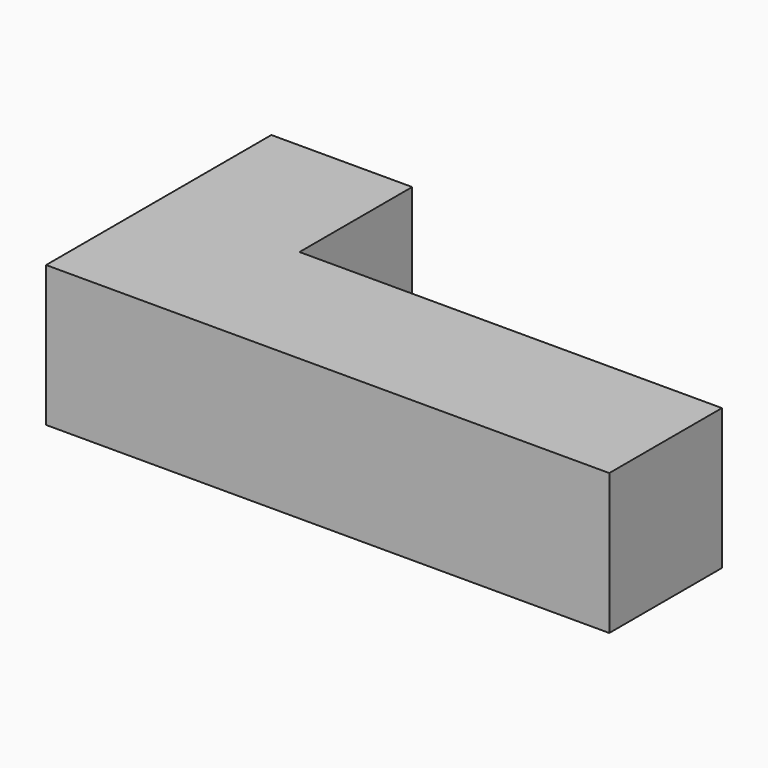
from build123d import *

# Parameters (mm, degrees)
BOX015_W     = 10
BOX015_H     = 10
BOX015_DEPTH = 10
BOX013_W     = 10
BOX013_H     = 10
BOX013_DEPTH = 10
BOX014_W     = 10
BOX014_H     = 10
BOX014_DEPTH = 10
BOX016_W     = 10
BOX016_H     = 10
BOX016_DEPTH = 10
BOX012_W     = 10
BOX012_H     = 10
BOX012_DEPTH = 10


with BuildPart() as cubo015:
    # Box015 → Box015 (new body)
    with BuildSketch(Plane(origin=(30, 0, 0), x_dir=(1, 0, 0), z_dir=(0, 0, 1))):
        with Locations((5, 5)):
            Rectangle(BOX015_W, BOX015_H)
    extrude(amount=BOX015_DEPTH)


with BuildPart() as cubo013:
    # Box013 → Box013 (new body)
    with BuildSketch(Plane(origin=(10, 0, 0), x_dir=(1, 0, 0), z_dir=(0, 0, 1))):
        with Locations((5, 5)):
            Rectangle(BOX013_W, BOX013_H)
    extrude(amount=BOX013_DEPTH)


with BuildPart() as cubo014:
    # Box014 → Box014 (new body)
    with BuildSketch(Plane(origin=(20, 0, 0), x_dir=(1, 0, 0), z_dir=(0, 0, 1))):
        with Locations((5, 5)):
            Rectangle(BOX014_W, BOX014_H)
    extrude(amount=BOX014_DEPTH)


with BuildPart() as cubo016:
    # Box016 → Box016 (new body)
    with BuildSketch(Plane(origin=(0, 10, 0), x_dir=(1, 0, 0), z_dir=(0, 0, 1))):
        with Locations((5, 5)):
            Rectangle(BOX016_W, BOX016_H)
    extrude(amount=BOX016_DEPTH)


with BuildPart() as fusion002003:
    # Box012 → Box012 (new body)
    with BuildSketch(Plane.XY):
        with Locations((5, 5)):
            Rectangle(BOX012_W, BOX012_H)
    extrude(amount=BOX012_DEPTH)

    # Fusion002003: union Cubo015, Cubo013, Cubo014, Cubo016
    add(cubo015.part)
    add(cubo013.part)
    add(cubo014.part)
    add(cubo016.part)


with BuildPart() as fusion002003_1:
    # Fusion002003 placement: moved
    add(fusion002003.part.moved(Location((0, 10, 0))))


solid = fusion002003_1.part
